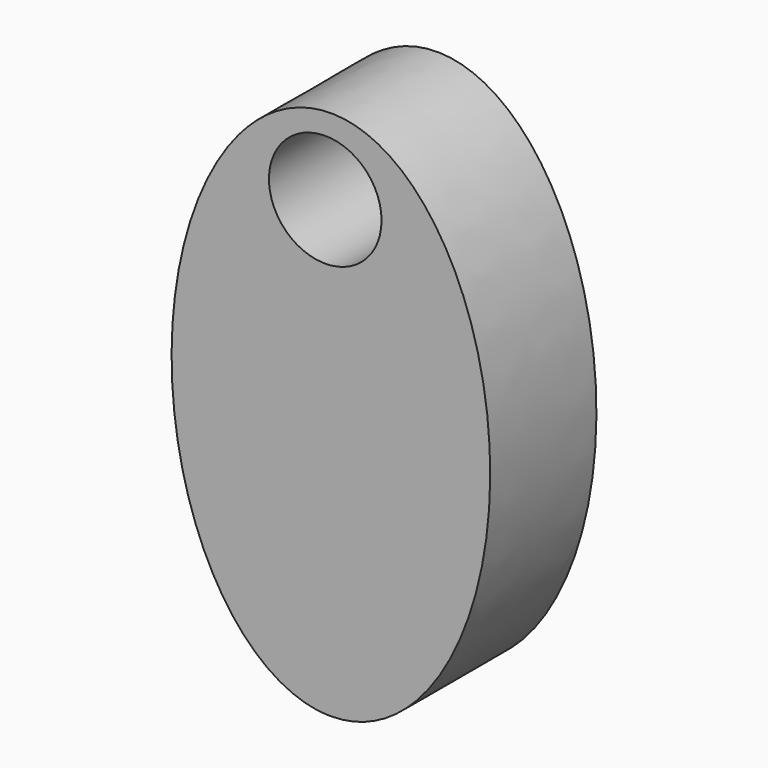
from build123d import *

# Parameters (mm, degrees)
F0_R     = 2.6924
F1_DEPTH = 6.35


with BuildPart() as f1:
    # F0 (on Front) → F1 (new body)
    with BuildSketch(Plane.XZ):
        with BuildLine():
            add(Edge.make_bspline(
                [(-38.507488, 13.68476), (-25.30926, 13.68476), (-31.908374, 32.73476), (-38.507488, 51.78476), (-45.106601, 32.73476), (-51.705715, 13.68476), (-38.507488, 13.68476)],
                knots=[0, 0, 0, 2.094395, 2.094395, 4.18879, 4.18879, 6.283185, 6.283185, 6.283185], degree=2, weights=[1, 0.5, 1, 0.5, 1, 0.5, 1]))
        make_face()
        with Locations((-38.778186, 35.347156)):
            Circle(F0_R, mode=Mode.SUBTRACT)
    extrude(amount=F1_DEPTH)


solid = f1.part
